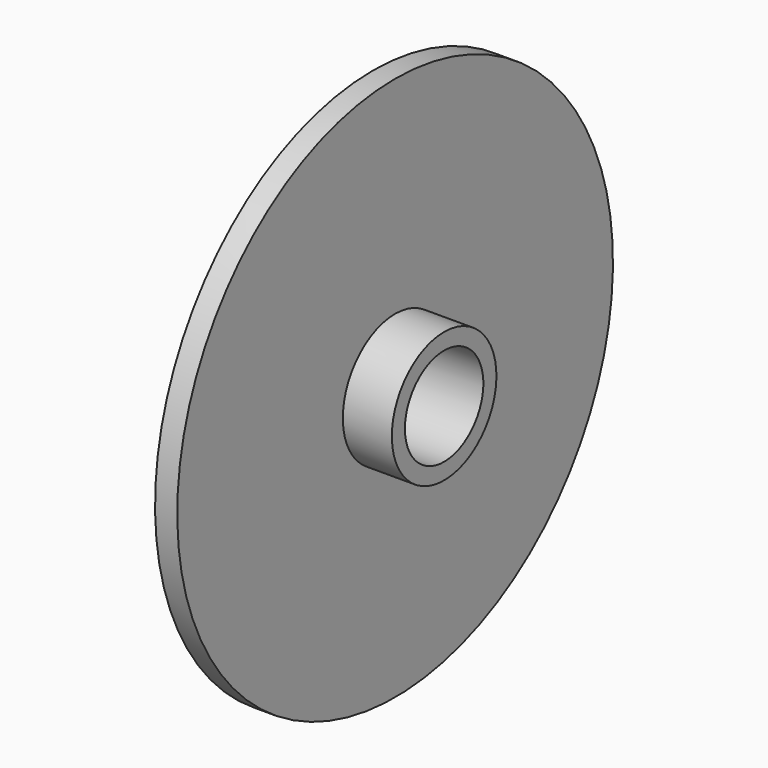
from build123d import *

# Parameters (mm, degrees)
F3_D = 18


with BuildPart() as f1:
    # F0 (on Front) → F1 (revolve)
    with BuildSketch(Plane.XZ):
        Polygon((10.919107, 50), (0, 20), (0, 0), (24, 0), (24, 12), (15, 12), (15, 50), align=None)
    revolve(axis=Axis((12, 0, 0), (-1, 0, 0)))

    # F3 (through all)
    with Locations(Plane(origin=(0, 0, 0), x_dir=(0, 1, 0), z_dir=(-1, 0, 0))):
        with Locations((0, 0)):
            Hole(F3_D / 2)


solid = f1.part
